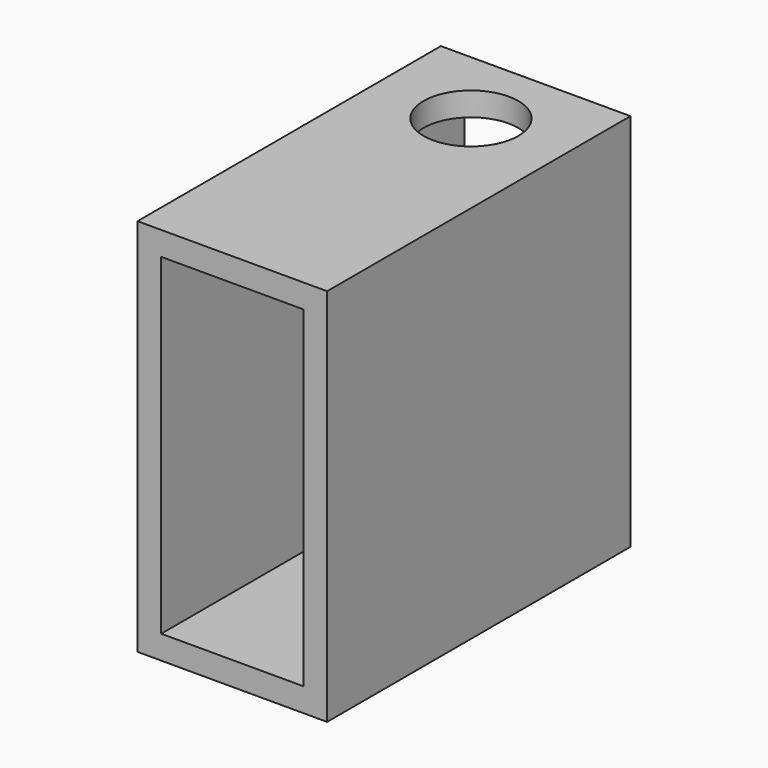
from build123d import *

# Parameters (mm, degrees)
F0_W     = 25.4
F0_H     = 50.8
F0_W_2   = 19.05
F0_H_2   = 44.45
F1_DEPTH = 50.8
F2_R     = 6.35
F3_DEPTH = 50.8


with BuildPart() as f1:
    # F0 (on Front) → F1 (new body)
    with BuildSketch(Plane.XZ):
        with Locations((12.7, 25.4)):
            Rectangle(F0_W, F0_H)
        with Locations((12.7, 25.4)):
            Rectangle(F0_W_2, F0_H_2, mode=Mode.SUBTRACT)
    extrude(amount=F1_DEPTH)

    # F2 (on face) → F3 (cut)
    with BuildSketch(Plane.XY.offset(50.8)):
        with Locations((12.7, -10.838359)):
            Circle(F2_R)
    extrude(amount=-F3_DEPTH, mode=Mode.SUBTRACT)


solid = f1.part
